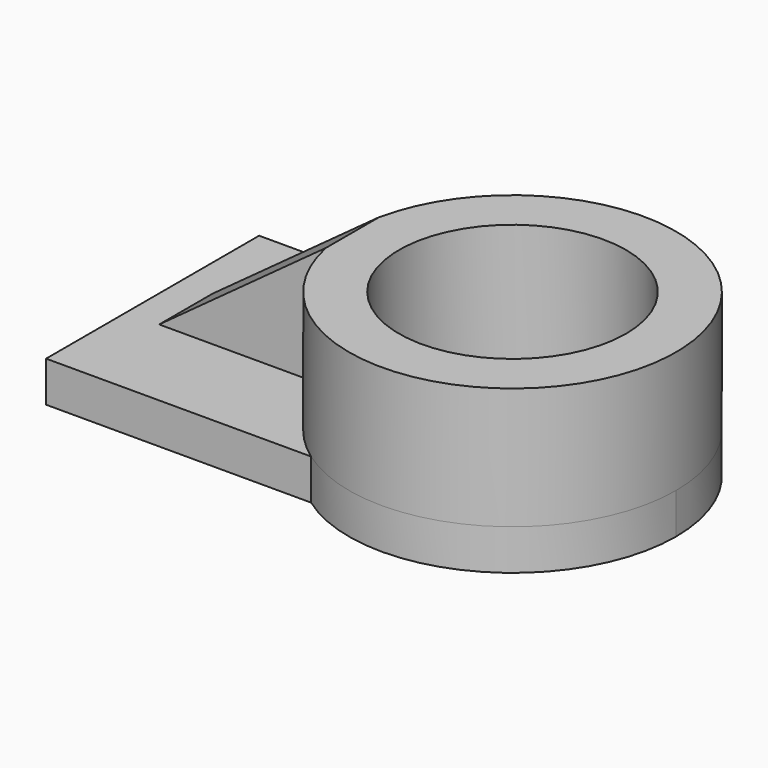
from build123d import *

# Parameters (mm, degrees)
F0_R     = 29.709724
F1_DEPTH = 12.7
F2_R     = 51.174274
F2_R_2   = 35.519293
F3_DEPTH = 38.1
F4_R     = 35.519293
F5_DEPTH = 79.248
F6_W     = 55.42592
F6_H     = 20.859219
F7_DEPTH = 42.926
F9_DEPTH = 25.4


with BuildPart() as f1:
    # F0 (on Top) → F1 (new body)
    with BuildSketch(Plane.XY):
        with BuildLine():
            ThreePointArc((33.761899, -41.666997), (86.906989, -45.492746), (114.645897, 0))
            ThreePointArc((114.645897, 0), (86.906989, 45.492746), (33.761899, 41.666997))
            ThreePointArc((33.761899, 41.666997), (12.297348, 0), (33.761899, -41.666997))
        make_face()
        with Locations((63.471623, 0)):
            Circle(F0_R, mode=Mode.SUBTRACT)
        with BuildLine():
            ThreePointArc((33.761899, -41.666997), (12.297348, 0), (33.761899, 41.666997))
            Line((33.761899, 41.666997), (-49.168151, 41.666997))
            Line((-49.168151, 41.666997), (-49.168151, -41.666997))
            Line((-49.168151, -41.666997), (33.761899, -41.666997))
        make_face()
    extrude(amount=F1_DEPTH)

    # F2 (on face) → F3 (join)
    with BuildSketch(Plane.XY.offset(12.7)):
        with Locations((63.471623, 0)):
            Circle(F2_R)
        with Locations((63.471623, 0)):
            Circle(F2_R_2, mode=Mode.SUBTRACT)
    extrude(amount=F3_DEPTH)

    # F4 (on face) → F5 (cut)
    with BuildSketch(Plane.XY.offset(50.8)):
        with Locations((63.471623, 0)):
            Circle(F4_R)
    extrude(amount=-F5_DEPTH, mode=Mode.SUBTRACT)

    # F6 (on face) → F7 (join)
    with BuildSketch(Plane.XY.offset(12.7)):
        with Locations((-11.171911, 0.148995)):
            Rectangle(F6_W, F6_H)
    extrude(amount=F7_DEPTH)

    # F8 (on face) → F9 (cut)
    with BuildSketch(Plane.XZ.offset(10.280615)):
        Polygon((-38.884871, 70.77235), (-38.884871, 12.7), (13.340641, 50.8), (16.541049, 50.8), (16.541049, 70.77235), align=None)
    extrude(amount=-F9_DEPTH, mode=Mode.SUBTRACT)


solid = f1.part
